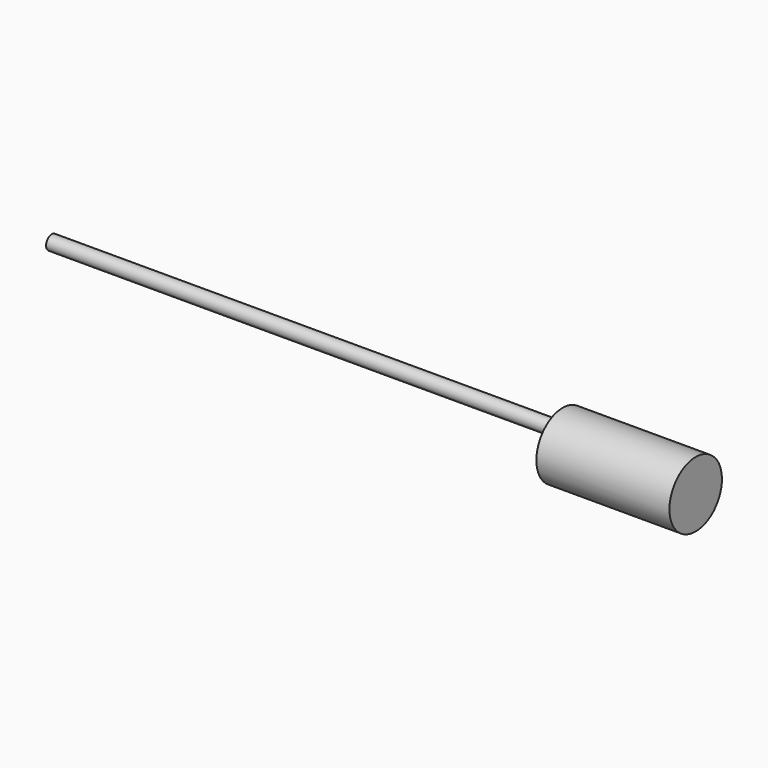
from build123d import *

# Parameters (mm, degrees)
CYLINDER049_R     = 18.5
CYLINDER049_DEPTH = 75
CYLINDER048_R     = 4
CYLINDER048_DEPTH = 350


with BuildPart() as cylinder049:
    # Cylinder049 → Cylinder049 (new body)
    with BuildSketch(Plane(origin=(336, 31, 5), x_dir=(0, 0, -1), z_dir=(1, 0, 0))):
        Circle(CYLINDER049_R)
    extrude(amount=CYLINDER049_DEPTH)


with BuildPart() as motor_threaded_bar_metal:
    # Cylinder048 → Cylinder048 (new body)
    with BuildSketch(Plane(origin=(48, 31, 12), x_dir=(0, 0, -1), z_dir=(1, 0, 0))):
        Circle(CYLINDER048_R)
    extrude(amount=CYLINDER048_DEPTH)

    # Fusion147: union Cylinder049
    add(cylinder049.part)


with BuildPart() as motor_threaded_bar_metal_1:
    # Fusion147 placement: moved
    add(motor_threaded_bar_metal.part.moved(Location((81, 0, 0))))


solid = motor_threaded_bar_metal_1.part
